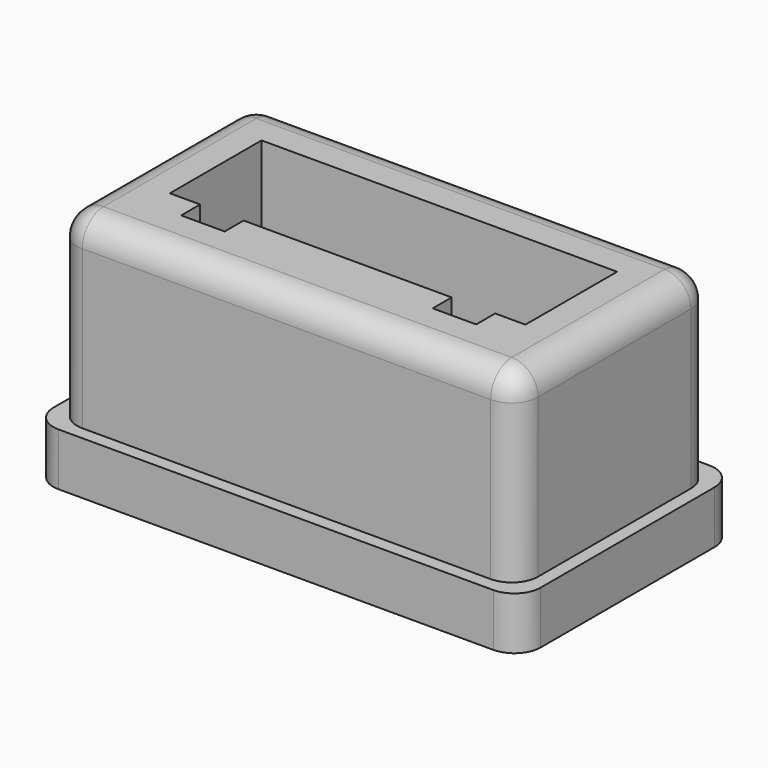
from build123d import *

# Parameters (mm, degrees)
F0_W     = 1.65
F0_H     = 0.9
F1_DEPTH = 2
F2_DEPTH = 9
F3_R     = 1


with BuildPart() as f1:
    # F0 (on Top) → F1 (new body)
    with BuildSketch(Plane.XY):
        Polygon((9.25, -2.175), (9.25, 4.675), (-9.25, 4.675), (-9.25, -2.175), (-9.25, -5.575), (3.95, -5.575), (5.6, -5.575), (9.25, -5.575), align=None)
        Polygon((-8.75, -2.175), (-8.75, 4.175), (8.75, 4.175), (8.75, -2.175), (8.75, -5.075), (5.6, -5.075), (3.95, -5.075), (-8.75, -5.075), align=None, mode=Mode.SUBTRACT)
        Polygon((8.75, 4.175), (-8.75, 4.175), (-8.75, -2.175), (-8.75, -5.075), (3.95, -5.075), (5.6, -5.075), (8.75, -5.075), (8.75, -2.175), align=None)
        Polygon((-6.75, 2.175), (6.75, 2.175), (6.75, -2.175), (5.6, -2.175), (5.6, -3.075), (3.95, -3.075), (3.95, -2.175), (-3.95, -2.175), (-3.95, -3.075), (-5.6, -3.075), (-5.6, -2.175), (-6.75, -2.175), align=None, mode=Mode.SUBTRACT)
        Polygon((6.75, -2.175), (6.75, 2.175), (-6.75, 2.175), (-6.75, -2.175), (-5.6, -2.175), (-3.95, -2.175), (3.95, -2.175), (5.6, -2.175), align=None)
        with Locations((-4.775, -2.625)):
            Rectangle(F0_W, F0_H)
        with Locations((4.775, -2.625)):
            Rectangle(F0_W, F0_H)
    extrude(amount=F1_DEPTH)

    # F0 (on Top) → F2 (join)
    with BuildSketch(Plane.XY):
        Polygon((8.75, 4.175), (-8.75, 4.175), (-8.75, -2.175), (-8.75, -5.075), (3.95, -5.075), (5.6, -5.075), (8.75, -5.075), (8.75, -2.175), align=None)
        Polygon((-6.75, 2.175), (6.75, 2.175), (6.75, -2.175), (5.6, -2.175), (5.6, -3.075), (3.95, -3.075), (3.95, -2.175), (-3.95, -2.175), (-3.95, -3.075), (-5.6, -3.075), (-5.6, -2.175), (-6.75, -2.175), align=None, mode=Mode.SUBTRACT)
    extrude(amount=F2_DEPTH)

    # F3
    f3_edges = [f1.edges().sort_by_distance(p)[0] for p in [
        (-9.25, -5.575, 1),
        (-8.75, -5.075, 5.5),
        (-9.25, 4.675, 1),
        (-8.75, 4.175, 5.5),
        (8.75, -5.075, 5.5),
        (9.25, -5.575, 1),
        (8.75, 4.175, 5.5),
        (9.25, 4.675, 1),
        (0, -5.075, 9),
        (-8.75, -0.45, 9),
        (0, 4.175, 9),
        (8.75, -0.45, 9),
    ]]
    fillet(f3_edges, radius=F3_R)


solid = f1.part
